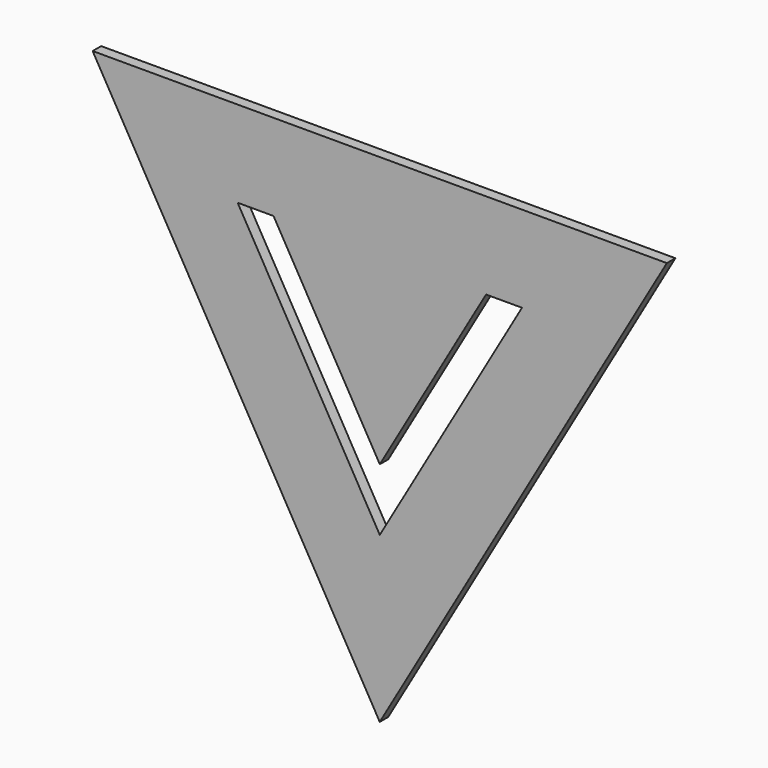
from build123d import *

# Parameters (mm, degrees)
F1_DEPTH = 2.54
F2_DEPTH = 2.54


with BuildPart() as f1:
    # F0 (on Front) → F1 (new body)
    with BuildSketch(Plane.XZ):
        Polygon((68.552187, 64.589173), (-68.577163, 64.589173), (-0.012488, -54.168328), align=None)
        Polygon((0, -14.852305), (-33.95032, 43.951374), (-25.375338, 43.951374), (25.375338, 43.951374), (33.95032, 43.951374), align=None, mode=Mode.SUBTRACT)
    extrude(amount=F1_DEPTH)

    # F0 (on Front) → F2 (join)
    with BuildSketch(Plane.XZ):
        Polygon((25.375338, 43.951374), (-25.375338, 43.951374), (0, 0), align=None)
    extrude(amount=F2_DEPTH)


solid = f1.part
